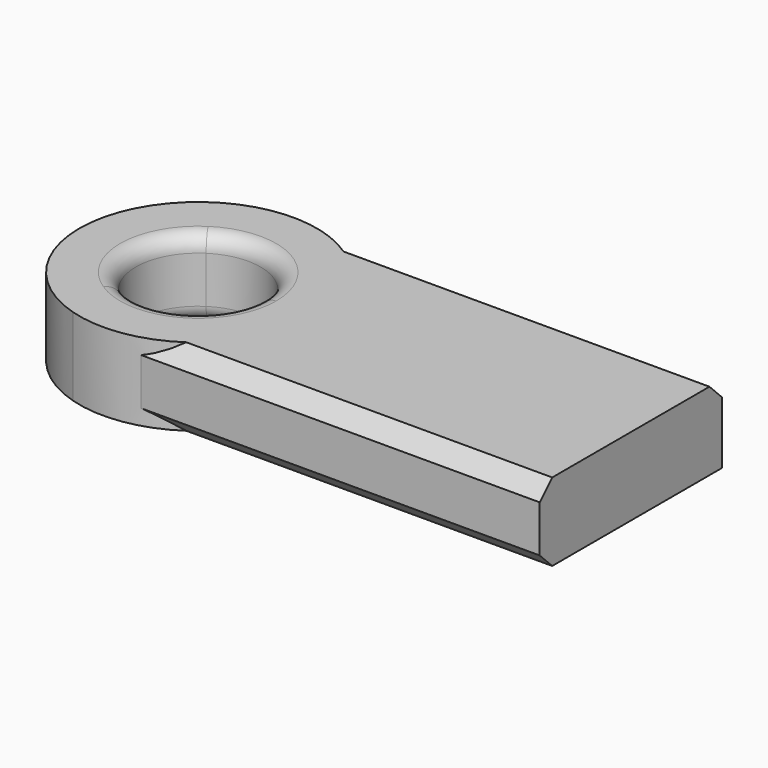
from build123d import *

# Parameters (mm, degrees)
F1_DEPTH = 25.4
F2_R     = 5.08
F3_R     = 5.08
F4_SIZE  = 5.08


with BuildPart() as f1:
    # F0 (on Top) → F1 (new body)
    with BuildSketch(Plane.XY):
        with BuildLine():
            Line((-76.0381892323, -17.0626985246), (-76.0381892323, -37.1113419533))
            Line((-76.0381892323, -37.1113419533), (-53.9251491427, -37.1113419533))
            ThreePointArc((-53.9251491427, -37.1113419533), (-33.9361871958, -23.1446837303), (-26.2583127076, 0))
            ThreePointArc((-26.2583127076, 0), (-33.9361871958, 23.1446837303), (-53.9251491427, 37.1113419533))
            Line((-53.9251491427, 37.1113419533), (-76.0381892323, 37.1113419533))
            Line((-76.0381892323, 37.1113419533), (-76.0381892323, 17.0626985246))
            ThreePointArc((-76.0381892323, 17.0626985246), (-55.2712803961, 17.8631090788), (-44.6498636494, 0))
            ThreePointArc((-44.6498636494, 0), (-55.2712803961, -17.8631090788), (-76.0381892323, -17.0626985246))
        make_face()
        with BuildLine():
            ThreePointArc((-76.0381892323, 37.1113419533), (-103.7050256675, 0), (-76.0381892323, -37.1113419533))
            Line((-76.0381892323, -37.1113419533), (-76.0381892323, -17.0626985246))
            ThreePointArc((-76.0381892323, -17.0626985246), (-85.3134747257, 0), (-76.0381892323, 17.0626985246))
            Line((-76.0381892323, 17.0626985246), (-76.0381892323, 37.1113419533))
        make_face()
        with BuildLine():
            Line((-53.9251491427, -37.1113419533), (-76.0381892323, -37.1113419533))
            ThreePointArc((-76.0381892323, -37.1113419533), (-64.9816691875, -38.72335648), (-53.9251491427, -37.1113419533))
        make_face()
        with BuildLine():
            ThreePointArc((-26.2583127076, 0), (-33.9361871958, -23.1446837303), (-53.9251491427, -37.1113419533))
            Line((-53.9251491427, -37.1113419533), (76.0381892323, -37.1113419533))
            Line((76.0381892323, -37.1113419533), (76.0381892323, 37.1113419533))
            Line((76.0381892323, 37.1113419533), (-53.9251491427, 37.1113419533))
            ThreePointArc((-53.9251491427, 37.1113419533), (-33.9361871958, 23.1446837303), (-26.2583127076, 0))
        make_face()
        with BuildLine():
            ThreePointArc((-53.9251491427, 37.1113419533), (-64.9816691875, 38.72335648), (-76.0381892323, 37.1113419533))
            Line((-76.0381892323, 37.1113419533), (-53.9251491427, 37.1113419533))
        make_face()
    extrude(amount=F1_DEPTH)

    # F2
    f2_edges = [f1.edges().sort_by_distance(p)[0] for p in [
        (-85.313475, 0, 25.4),
    ]]
    fillet(f2_edges, radius=F2_R)

    # F3
    f3_edges = [f1.edges().sort_by_distance(p)[0] for p in [
        (-85.313475, 0, 0),
    ]]
    fillet(f3_edges, radius=F3_R)

    # F4
    f4_edges = [f1.edges().sort_by_distance(p)[0] for p in [
        (11.05652, -37.111342, 25.4),
        (11.05652, 37.111342, 25.4),
        (11.05652, -37.111342, 0),
    ]]
    chamfer(f4_edges, length=F4_SIZE)


solid = f1.part
